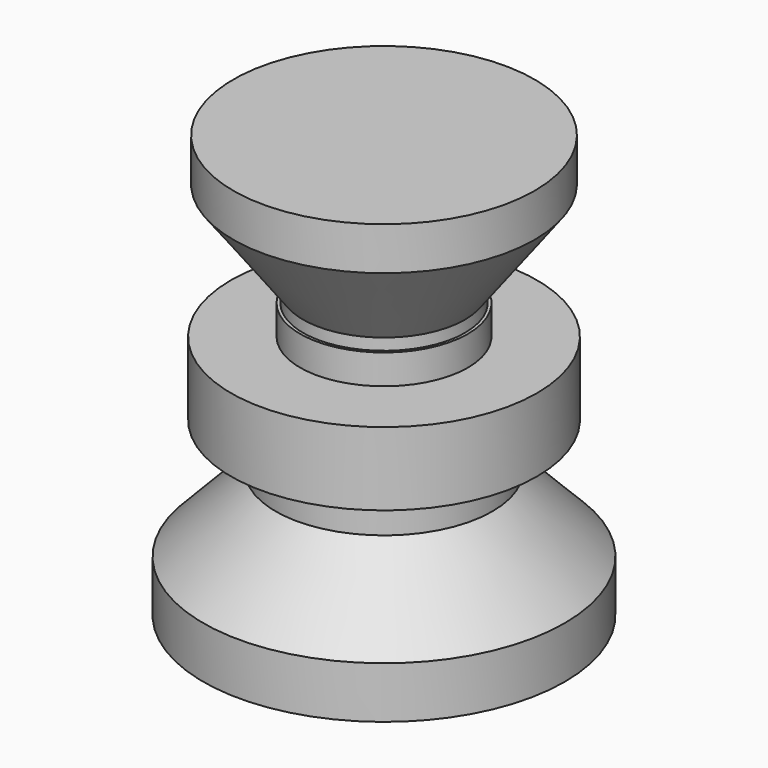
from build123d import *

# Parameters (mm, degrees)
F0_R       = 29.175
F1_DEPTH   = 8.35
F1_FACE_R  = 29.175
F3_R       = 15.685
F5_R       = 15.685
F6_DEPTH   = 2.25
F7_R       = 16.25
F8_DEPTH   = 5.75
F9_R       = 29.625
F10_DEPTH  = 14.2
F11_R      = 21
F12_DEPTH  = 8.75
F12_FACE_R = 21
F14_R      = 35
F16_R      = 35
F17_DEPTH  = 10


with BuildPart() as f1:
    # F0 (on Top) → F1 (new body)
    with BuildSketch(Plane.XY):
        Circle(F0_R)
    extrude(amount=F1_DEPTH)

    # F1_face (on face) → F4 section 0
    with BuildSketch(Plane(origin=(0, 0, 0), x_dir=(1, 0, 0), z_dir=(0, 0, -1))):
        Circle(F1_FACE_R)
    # F3 (on offset) → F4 section 1
    with BuildSketch(Plane(origin=(0, 0, -18), x_dir=(1, 0, 0), z_dir=(0, 0, -1))):
        Circle(F3_R)
    loft()

    # F5 (on face) → F6 (join)
    with BuildSketch(Plane(origin=(0, 0, -18), x_dir=(1, 0, 0), z_dir=(0, 0, -1))):
        Circle(F5_R)
    extrude(amount=F6_DEPTH)

    # F7 (on face) → F8 (join)
    with BuildSketch(Plane(origin=(0, 0, -20.25), x_dir=(1, 0, 0), z_dir=(0, 0, -1))):
        Circle(F7_R)
    extrude(amount=F8_DEPTH)

    # F9 (on face) → F10 (join)
    with BuildSketch(Plane(origin=(0, 0, -26), x_dir=(1, 0, 0), z_dir=(0, 0, -1))):
        Circle(F9_R)
    extrude(amount=F10_DEPTH)

    # F11 (on face) → F12 (join)
    with BuildSketch(Plane(origin=(0, 0, -40.2), x_dir=(1, 0, 0), z_dir=(0, 0, -1))):
        Circle(F11_R)
    extrude(amount=F12_DEPTH)

    # F12_face (on face) → F15 section 0
    with BuildSketch(Plane(origin=(0, 0, -48.95), x_dir=(1, 0, 0), z_dir=(0, 0, -1))):
        Circle(F12_FACE_R)
    # F14 (on offset) → F15 section 1
    with BuildSketch(Plane(origin=(0, 0, -63.45), x_dir=(1, 0, 0), z_dir=(0, 0, -1))):
        Circle(F14_R)
    loft()

    # F16 (on face) → F17 (join)
    with BuildSketch(Plane(origin=(0, 0, -63.45), x_dir=(1, 0, 0), z_dir=(0, 0, -1))):
        Circle(F16_R)
    extrude(amount=F17_DEPTH)


solid = f1.part
